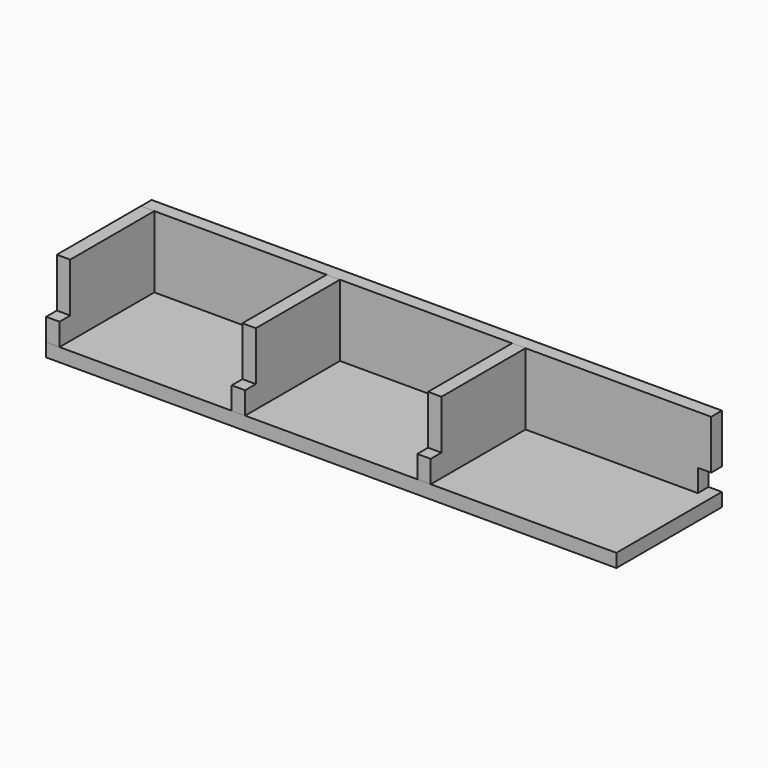
from build123d import *

# Parameters (mm, degrees)
SKETCH_W        = 255
SKETCH_H        = 59
PAD_DEPTH       = 6
SKETCH001_W     = 255
SKETCH001_H     = 32
PAD001_DEPTH    = 6
SKETCH002_W     = 6
SKETCH002_H     = 10
POCKET_DEPTH    = 6.001
SKETCH003_W     = 59
SKETCH003_H     = 32
PAD002_DEPTH    = 6
SKETCH004_W     = 6
SKETCH004_H     = 22
POCKET001_DEPTH = 6.001


with BuildPart() as base:
    # Sketch → Pad (new body)
    with BuildSketch(Plane.XY):
        with Locations((0, 29.5)):
            Rectangle(SKETCH_W, SKETCH_H)
    extrude(amount=PAD_DEPTH)


with BuildPart() as side_long_clone:
    # Sketch001 → Pad001 (new body)
    with BuildSketch(Plane.XZ):
        with Locations((0, 16)):
            Rectangle(SKETCH001_W, SKETCH001_H)
    extrude(amount=PAD001_DEPTH)

    # Sketch002 (on Face6 of Pad001) → Pocket (cut, through all)
    with BuildSketch(Plane.XZ.offset(6)):
        with Locations((-124.5, 5)):
            Rectangle(SKETCH002_W, SKETCH002_H)
        with Locations((124.5, 5)):
            Rectangle(SKETCH002_W, SKETCH002_H)
        with Locations((-41.5, 5)):
            Rectangle(SKETCH002_W, SKETCH002_H)
        with Locations((41.5, 5)):
            Rectangle(SKETCH002_W, SKETCH002_H)
    extrude(amount=-POCKET_DEPTH, mode=Mode.SUBTRACT)


with BuildPart() as side_long_clone_1:
    # Body001 placement: moved
    add(side_long_clone.part.moved(Location((0, 6, 6))))


with BuildPart() as side_long_clone_2:
    # Body002 placement: moved
    add(side_long_clone_1.part.moved(Location((0, 53, 0))))


with BuildPart() as side_short:
    # Sketch003 → Pad002 (new body)
    with BuildSketch(Plane.YZ):
        with Locations((0, 16)):
            Rectangle(SKETCH003_W, SKETCH003_H)
    extrude(amount=PAD002_DEPTH)

    # Sketch004 (on Face6 of Pad002) → Pocket001 (cut, through all)
    with BuildSketch(Plane.YZ.offset(6)):
        with Locations((-26.5, 21)):
            Rectangle(SKETCH004_W, SKETCH004_H)
        with Locations((26.5, 21)):
            Rectangle(SKETCH004_W, SKETCH004_H)
    extrude(amount=-POCKET001_DEPTH, mode=Mode.SUBTRACT)


with BuildPart() as side_short_1:
    # Body003 placement: moved
    add(side_short.part.moved(Location((121.5, 29.5, 6))))


with BuildPart() as side_small_clone:
    # Body004 base: copy of side short
    add(side_short_1.part)


with BuildPart() as side_small_clone_1:
    # Clone001 placement: moved
    add(side_small_clone.part.moved(Location((-87.5, -4.5, 0))))


with BuildPart() as side_small_clone_2:
    # Body004 placement: moved
    add(side_small_clone_1.part.moved(Location((-161.5, 4.5, 0))))


with BuildPart() as side_small_divider_clone:
    # Body005 base: copy of side short
    add(side_short_1.part)


with BuildPart() as side_small_divider_clone_1:
    # Body005 placement: moved
    add(side_small_divider_clone.part.moved(Location((-166, 0, 0))))


with BuildPart() as body006:
    # Body006 base: copy of side short
    add(side_short_1.part)


with BuildPart() as body006_1:
    # Body006 placement: moved
    add(body006.part.moved(Location((-83, 0, 0))))


solid = Compound([base.part, side_long_clone_2.part, side_small_clone_2.part, side_small_divider_clone_1.part, body006_1.part])
